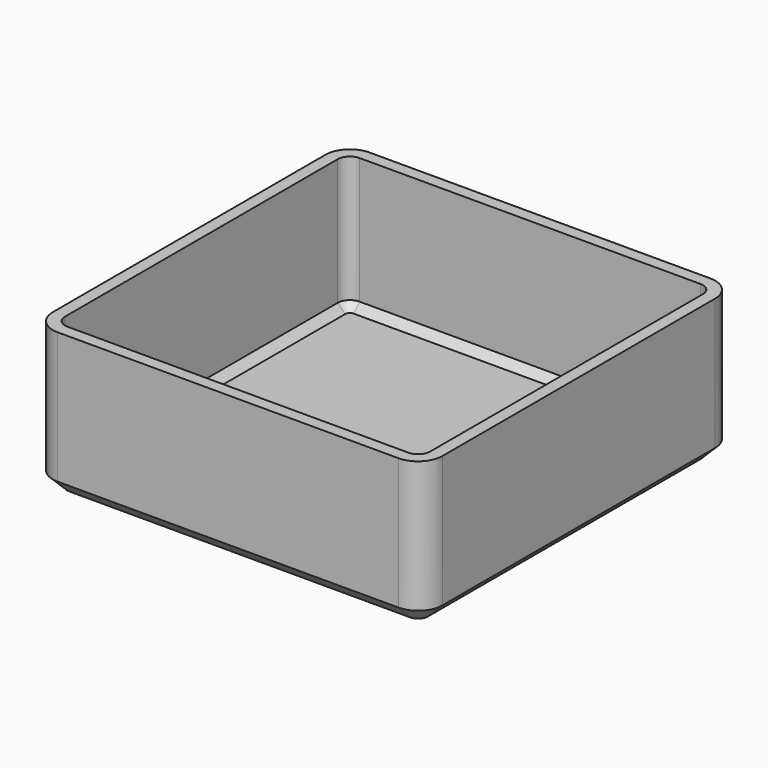
from build123d import *

# Parameters (mm, degrees)
F0_W     = 101.6
F0_H     = 101.6
F1_DEPTH = 38.1
F3_R     = 6.35
F4_SIZE  = 3.81
F5_T     = -3.175
F2_R     = 6.35
F6_DEPTH = 38.101


with BuildPart() as f1:
    # F0 (on Top) → F1 (new body)
    with BuildSketch(Plane.XY):
        Rectangle(F0_W, F0_H)
    extrude(amount=F1_DEPTH)

    # F3
    f3_edges = [f1.edges().sort_by_distance(p)[0] for p in [
        (50.8, -50.8, 19.05),
        (50.8, 50.8, 19.05),
        (-50.8, 50.8, 19.05),
        (-50.8, -50.8, 19.05),
    ]]
    fillet(f3_edges, radius=F3_R)

    # F4
    f4_edges = [f1.edges().sort_by_distance(p)[0] for p in [
        (50.8, 0, 0),
    ]]
    chamfer(f4_edges, length=F4_SIZE)

    # F5
    f5_openings = [f1.faces().sort_by_distance(p)[0] for p in [
        (0, 0, 38.1),
    ]]
    offset(amount=F5_T, openings=f5_openings)

    # F2 (on face) → F6 (cut, through all)
    with BuildSketch(Plane(origin=(0, 0, 0), x_dir=(1, 0, 0), z_dir=(0, 0, -1))):
        with Locations((-31.430896, 31.430896)):
            Circle(F2_R)
    extrude(amount=-F6_DEPTH, mode=Mode.SUBTRACT)


solid = f1.part
